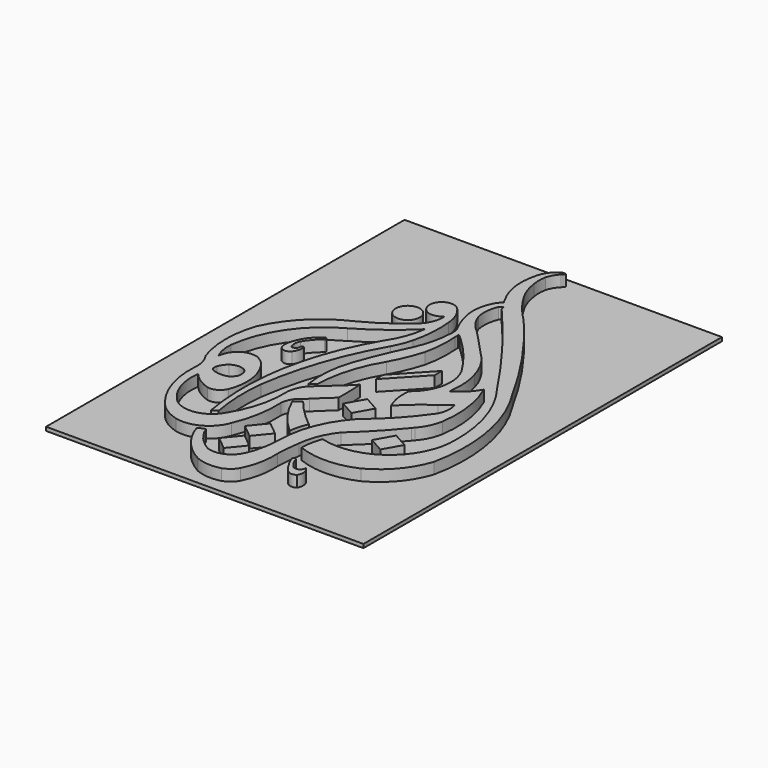
from build123d import *

# Parameters (mm, degrees)
F0_R     = 3.25
F1_DEPTH = 3
F2_W     = 85
F2_H     = 120
F3_DEPTH = 1


with BuildPart() as f1:
    # F0 (on Top) → F1 (new body)
    with BuildSketch(Plane.XY):
        with BuildLine():
            ThreePointArc((34.371644, -26.247619), (34.56742, -8.494676), (28, 8))
            ThreePointArc((28, 8), (19.649245, 21.605147), (9.98616, 34.311836))
            ThreePointArc((9.98616, 34.311836), (8.802554, 35.666805), (7.570967, 36.978315))
            ThreePointArc((7.570967, 36.978315), (4.710405, 40.320198), (2.3, 44))
            ThreePointArc((2.3, 44), (1.059116, 46.769064), (0.383145, 49.727201))
            ThreePointArc((0.383145, 49.727201), (0.211656, 51.652448), (0.383145, 53.577695))
            ThreePointArc((0.383145, 53.577695), (1.069733, 55.175024), (2.116346, 56.563355))
            ThreePointArc((2.116346, 56.563355), (2.298682, 56.728032), (2.492311, 56.879271))
            ThreePointArc((2.492311, 56.879271), (2.674455, 57.127018), (2.739356, 57.427589))
            ThreePointArc((2.739356, 57.427589), (2.118351, 57.499692), (1.528946, 57.291247))
            ThreePointArc((1.528946, 57.291247), (-0.457957, 55.42552), (-1.562442, 52.933767))
            ThreePointArc((-1.562442, 52.933767), (-2.034149, 46.57663), (0, 40.535277))
            ThreePointArc((0, 40.535277), (0.343911, 39.813194), (0.782946, 39.144668))
            ThreePointArc((0.782946, 39.144668), (-0.063904, 38.459901), (-0.66253, 37.550115))
            ThreePointArc((-0.66253, 37.550115), (-0.750407, 37.359898), (-0.840273, 37.170612))
            ThreePointArc((-0.840273, 37.170612), (-1.892949, 33.542824), (-1.70514, 29.770066))
            ThreePointArc((-1.70514, 29.770066), (-0.889513, 26.929866), (0.343439, 24.244384))
            ThreePointArc((0.343439, 24.244384), (0.760902, 23.033517), (0.854719, 21.756148))
            ThreePointArc((0.854719, 21.756148), (0.191351, 16.620614), (-1.433636, 11.703991))
            ThreePointArc((-1.433636, 11.703991), (-4.485918, 4.941533), (-7.142179, -1.98606))
            ThreePointArc((-7.142179, -1.98606), (-8.46924, -8.439289), (-8.173198, -15.020901))
            Line((-8.173198, -15.020901), (-6.646384, -14.056857))
            ThreePointArc((-6.646384, -14.056857), (-5.296865, -5.243613), (-1.70583, 2.917204))
            ThreePointArc((-1.70583, 2.917204), (0.318108, 7.082759), (1.861267, 11.449317))
            ThreePointArc((1.861267, 11.449317), (2.548669, 16.005483), (2.495916, 20.61291))
            Line((2.495916, 20.61291), (2.495916, 21.611009))
            ThreePointArc((2.495916, 21.611009), (2.615428, 21.767601), (2.811738, 21.751272))
            Line((2.811738, 21.751272), (4.042052, 20.61291))
            ThreePointArc((4.042052, 20.61291), (9.008961, 15.341842), (13.209442, 9.441815))
            ThreePointArc((13.209442, 9.441815), (13.317483, 9.256901), (13.417506, 9.06753))
            ThreePointArc((13.417506, 9.06753), (14.320872, 1.716135), (10.372523, -4.550413))
            ThreePointArc((10.372523, -4.550413), (10.383619, -8.34035), (11.488155, -11.965781))
            ThreePointArc((11.488155, -11.965781), (15.025315, -8.589684), (18.927007, -5.642427))
            ThreePointArc((18.927007, -5.642427), (20.100202, -4.795024), (21.209045, -3.865001))
            ThreePointArc((21.209045, -3.865001), (21.427768, -3.666912), (21.645762, -3.468021))
            ThreePointArc((21.645762, -3.468021), (22.036052, -5.279452), (21.848746, -7.12296))
            ThreePointArc((21.848746, -7.12296), (21.566425, -8.048586), (21.118214, -8.906255))
            ThreePointArc((21.118214, -8.906255), (15.896256, -15.382318), (9.815645, -21.059856))
            ThreePointArc((9.815645, -21.059856), (4.724658, -29.152084), (2.936694, -38.543861))
            ThreePointArc((2.936694, -38.543861), (2.657764, -41.84117), (1.99623, -45.083456))
            ThreePointArc((1.99623, -45.083456), (1.400504, -46.891707), (0.579061, -48.609233))
            ThreePointArc((0.579061, -48.609233), (-2.485296, -51.039497), (-6.396299, -51.016606))
            ThreePointArc((-6.396299, -51.016606), (-9.832113, -48.228099), (-12.14005, -44.45265))
            ThreePointArc((-12.14005, -44.45265), (-13.091328, -44.763371), (-13.94716, -45.282051))
            ThreePointArc((-13.94716, -45.282051), (-10.615807, -51.368934), (-5.253343, -55.772573))
            ThreePointArc((-5.253343, -55.772573), (-1.924155, -56.587126), (1.488271, -56.267232))
            ThreePointArc((1.488271, -56.267232), (3.229223, -55.27788), (4.528367, -53.754084))
            ThreePointArc((4.528367, -53.754084), (6.161699, -48.90305), (6.500624, -43.79566))
            ThreePointArc((6.500624, -43.79566), (6.720004, -40.534494), (7.107936, -37.289061))
            ThreePointArc((7.107936, -37.289061), (8.328861, -32.38431), (10.88033, -28.021142))
            ThreePointArc((10.88033, -28.021142), (16.21094, -22.819712), (21.118214, -17.217129))
            ThreePointArc((21.118214, -17.217129), (21.359173, -16.924964), (21.605621, -16.637413))
            ThreePointArc((21.605621, -16.637413), (23.372087, -13.954435), (24.354096, -10.895934))
            ThreePointArc((24.354096, -10.895934), (24.411283, -2.392932), (22.089323, 5.787093))
            ThreePointArc((22.089323, 5.787093), (19.893168, 2.948095), (17.050618, 0.756538))
            ThreePointArc((17.050618, 0.756538), (16.989191, 1.53042), (17.050618, 2.304303))
            ThreePointArc((17.050618, 2.304303), (17.103459, 6.154434), (16.325205, 9.925458))
            ThreePointArc((16.325205, 9.925458), (14.397516, 14.387973), (11.348736, 18.174128))
            ThreePointArc((11.348736, 18.174128), (7.919622, 21.846087), (4.455843, 25.485364))
            ThreePointArc((4.455843, 25.485364), (2.089743, 27.982306), (0.517235, 31.041778))
            ThreePointArc((0.517235, 31.041778), (0.357116, 34.074918), (1.11684, 37.015733))
            ThreePointArc((1.11684, 37.015733), (1.533438, 37.378962), (2.069521, 37.513511))
            ThreePointArc((2.069521, 37.513511), (2.088692, 37.065013), (2.203737, 36.631097))
            ThreePointArc((2.203737, 36.631097), (13.517529, 22.668031), (23.901073, 8))
            ThreePointArc((23.901073, 8), (29.812472, -3.10724), (31.709205, -15.545801))
            ThreePointArc((31.709205, -15.545801), (25.076983, -29.701041), (9.751281, -32.780007))
            ThreePointArc((9.751281, -32.780007), (8.981904, -35.591186), (8.6616, -38.488094))
            ThreePointArc((8.6616, -38.488094), (16.517234, -39.903823), (24.307154, -38.16244))
            ThreePointArc((24.307154, -38.16244), (30.500246, -33.1856), (34.371644, -26.247619))
        make_face()
        with BuildLine():
            ThreePointArc((-4.084377, -21.974757), (-5.003969, -22.645723), (-5.816431, -23.443062))
            ThreePointArc((-5.816431, -23.443062), (-2.50502, -29.202159), (2.008377, -34.076776))
            ThreePointArc((2.008377, -34.076776), (2.48898, -31.645975), (3.294273, -29.302626))
            ThreePointArc((3.294273, -29.302626), (-0.601608, -25.846679), (-4.084377, -21.974757))
        make_face()
        with BuildLine():
            ThreePointArc((-3.808913, -20.194303), (-1.625622, -18.073166), (0.624947, -16.02355))
            ThreePointArc((0.624947, -16.02355), (0.622481, -12.32062), (0.430653, -8.62266))
            ThreePointArc((0.430653, -8.62266), (-2.096129, -11.135174), (-4.760548, -13.501231))
            ThreePointArc((-4.760548, -13.501231), (-6.134701, -14.772349), (-7.527013, -16.02355))
            ThreePointArc((-7.527013, -16.02355), (-8.835554, -18.149514), (-9.419614, -20.576626))
            ThreePointArc((-9.419614, -20.576626), (-10.314772, -28.765379), (-13.635213, -36.304057))
            ThreePointArc((-13.635213, -36.304057), (-18.578117, -39.824067), (-24.498491, -38.492925))
            ThreePointArc((-24.498491, -38.492925), (-28.308846, -32.784281), (-29.01612, -25.957335))
            ThreePointArc((-29.01612, -25.957335), (-26.639376, -28.069821), (-23.770999, -29.442381))
            ThreePointArc((-23.770999, -29.442381), (-21.364837, -29.122503), (-19.752089, -27.308397))
            ThreePointArc((-19.752089, -27.308397), (-18.895155, -20.93768), (-21.061977, -14.885801))
            ThreePointArc((-21.061977, -14.885801), (-22.422788, -13.321298), (-24.150396, -12.174631))
            ThreePointArc((-24.150396, -12.174631), (-26.121055, -11.953263), (-28.036509, -12.466625))
            ThreePointArc((-28.036509, -12.466625), (-29.962698, -14.341685), (-30.833397, -16.884899))
            ThreePointArc((-30.833397, -16.884899), (-31.732451, -14.218235), (-31.875793, -11.407746))
            ThreePointArc((-31.875793, -11.407746), (-27.264785, 0.90604), (-17.499542, 9.711194))
            ThreePointArc((-17.499542, 9.711194), (-10.781232, 14.191188), (-4.65883, 19.456377))
            ThreePointArc((-4.65883, 19.456377), (-5.820897, 14.582804), (-8.109163, 10.12568))
            ThreePointArc((-8.109163, 10.12568), (-16.642703, -12.766095), (-16.622992, -37.196696))
            ThreePointArc((-16.622992, -37.196696), (-15.930232, -36.737537), (-15.219252, -36.30713))
            ThreePointArc((-15.219252, -36.30713), (-16.082104, -28.863172), (-15.80287, -21.374578))
            ThreePointArc((-15.80287, -21.374578), (-12.055641, -5.745845), (-5.450666, 8.90589))
            ThreePointArc((-5.450666, 8.90589), (-4.257333, 11.383855), (-3.415238, 14.002104))
            ThreePointArc((-3.415238, 14.002104), (-2.559123, 19.451295), (-2.65412, 24.966508))
            ThreePointArc((-2.65412, 24.966508), (-3.247017, 27.820015), (-4.702754, 30.344863))
            ThreePointArc((-4.702754, 30.344863), (-10.765011, 29.015795), (-5.019534, 26.669122))
            ThreePointArc((-5.019534, 26.669122), (-5.446165, 23.438706), (-7.249229, 20.724565))
            ThreePointArc((-7.249229, 20.724565), (-12.600233, 16.535157), (-18.442307, 13.06319))
            ThreePointArc((-18.442307, 13.06319), (-27.03877, 7.091451), (-32.968193, -1.534254))
            ThreePointArc((-32.968193, -1.534254), (-34.36226, -10.029135), (-32.968193, -18.524017))
            ThreePointArc((-32.968193, -18.524017), (-31.734737, -21.085044), (-31.46841, -23.915121))
            ThreePointArc((-31.46841, -23.915121), (-30.535785, -32.418324), (-26.653765, -40.040933))
            ThreePointArc((-26.653765, -40.040933), (-23.695876, -42.903047), (-19.956067, -44.621952))
            ThreePointArc((-19.956067, -44.621952), (-13.718269, -43.732947), (-9.674962, -38.900543))
            ThreePointArc((-9.674962, -38.900543), (-7.724725, -32.248583), (-7.3123, -25.328908))
            ThreePointArc((-7.3123, -25.328908), (-6.971258, -23.785895), (-6.215611, -22.398019))
            ThreePointArc((-6.215611, -22.398019), (-4.999562, -21.310031), (-3.808913, -20.194303))
        make_face()
        with BuildLine():
            ThreePointArc((-26.604781, -18.65112), (-24.837692, -17.960832), (-22.968309, -18.284112))
            ThreePointArc((-22.968309, -18.284112), (-22.27653, -18.879564), (-21.904275, -19.712958))
            ThreePointArc((-21.904275, -19.712958), (-21.842202, -20.558925), (-21.978131, -21.396203))
            ThreePointArc((-21.978131, -21.396203), (-22.731723, -22.39111), (-23.804929, -23.028269))
            ThreePointArc((-23.804929, -23.028269), (-25.597447, -23.152919), (-27.349813, -22.755586))
            ThreePointArc((-27.349813, -22.755586), (-27.636386, -22.61364), (-27.887781, -22.415973))
            ThreePointArc((-27.887781, -22.415973), (-28.090195, -22.137297), (-28.186052, -21.806475))
            ThreePointArc((-28.186052, -21.806475), (-28.190702, -21.322335), (-28.099691, -20.846803))
            ThreePointArc((-28.099691, -20.846803), (-27.520974, -19.634078), (-26.604781, -18.65112))
        make_face(mode=Mode.SUBTRACT)
        with Locations((-12.039632, 22.992162)):
            Circle(F0_R)
        Polygon((9.979001, 6.974182), (1.492361, -2.09229), (1.492361, -4.612109), (9.979001, 4.454362), align=None)
        Polygon((5.752999, -12.749751), (3.080326, -17.501168), (7.094553, -19.759172), (9.767226, -15.007755), align=None)
        Polygon((20.779318, -21.880326), (18.106645, -26.631743), (22.120872, -28.889747), (24.793545, -24.13833), align=None)
        Polygon((-3.18924, -34.039327), (-6.646384, -38.254455), (-3.08524, -41.175218), (0.371904, -36.96009), align=None)
        Polygon((-3.977456, -41.686067), (-7.4346, -45.901194), (-3.873456, -48.821957), (-0.416312, -44.60683), align=None)
        with BuildLine():
            ThreePointArc((-18.117547, 2.721517), (-18.085393, 3.377172), (-18.741837, 3.37702))
            ThreePointArc((-18.741837, 3.37702), (-21.658508, 0.413208), (-23.174288, -3.458944))
            ThreePointArc((-23.174288, -3.458944), (-23.198219, -4.559112), (-22.877059, -5.611632))
            ThreePointArc((-22.877059, -5.611632), (-22.794941, -5.749988), (-22.691698, -5.873384))
            ThreePointArc((-22.691698, -5.873384), (-21.341749, -6.398644), (-20.052843, -5.737599))
            ThreePointArc((-20.052843, -5.737599), (-19.398654, -4.484932), (-19.210054, -3.084371))
            ThreePointArc((-19.210054, -3.084371), (-19.629192, -2.580806), (-19.9592, -3.1468))
            ThreePointArc((-19.9592, -3.1468), (-20.319724, -3.924468), (-21.114635, -4.24519))
            ThreePointArc((-21.114635, -4.24519), (-21.393192, -4.162711), (-21.578875, -3.939286))
            ThreePointArc((-21.578875, -3.939286), (-21.835441, -2.512083), (-21.457493, -1.112122))
            ThreePointArc((-21.457493, -1.112122), (-19.978553, 0.971129), (-18.117547, 2.721517))
        make_face()
        with BuildLine():
            ThreePointArc((11.111589, -43.456167), (10.476207, -43.206216), (10.294939, -43.864492))
            ThreePointArc((10.294939, -43.864492), (11.49261, -46.296451), (13.116093, -48.467427))
            ThreePointArc((13.116093, -48.467427), (14.357325, -49.123272), (15.714524, -48.764389))
            ThreePointArc((15.714524, -48.764389), (16.125272, -46.867261), (15.194838, -45.163706))
            ThreePointArc((15.194838, -45.163706), (14.503525, -46.537256), (12.967612, -46.462923))
            ThreePointArc((12.967612, -46.462923), (11.835499, -45.085534), (11.111589, -43.456167))
        make_face()
    extrude(amount=F1_DEPTH)

    # F2 (on Top) → F3 (join)
    with BuildSketch(Plane.XY):
        Rectangle(F2_W, F2_H)
    extrude(amount=-F3_DEPTH)


solid = f1.part
